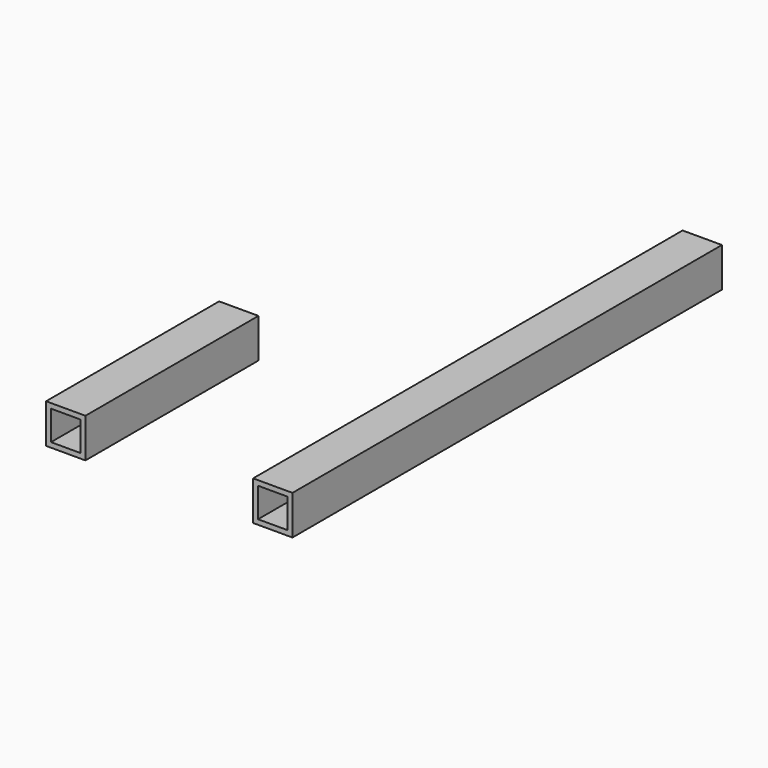
from build123d import *

# Parameters (mm, degrees)
F0_W     = 20
F0_H     = 20
F0_W_2   = 15
F0_H_2   = 15
F1_DEPTH = 110
F2_W     = 20
F2_H     = 20
F2_W_2   = 15
F2_H_2   = 15
F3_DEPTH = 273


with BuildPart() as f1:
    # F0 (on Front) → F1 (new body)
    with BuildSketch(Plane.XZ):
        with Locations((-56.30846, 46.267733)):
            Rectangle(F0_W, F0_H)
        with Locations((-56.30846, 46.267733)):
            Rectangle(F0_W_2, F0_H_2, mode=Mode.SUBTRACT)
    extrude(amount=-F1_DEPTH)


with BuildPart() as f3:
    # F2 (on Front) → F3 (new body)
    with BuildSketch(Plane.XZ):
        with Locations((48.978394, 45.986342)):
            Rectangle(F2_W, F2_H)
        with Locations((48.978394, 45.986342)):
            Rectangle(F2_W_2, F2_H_2, mode=Mode.SUBTRACT)
    extrude(amount=-F3_DEPTH)


solid = Compound([f1.part, f3.part])
